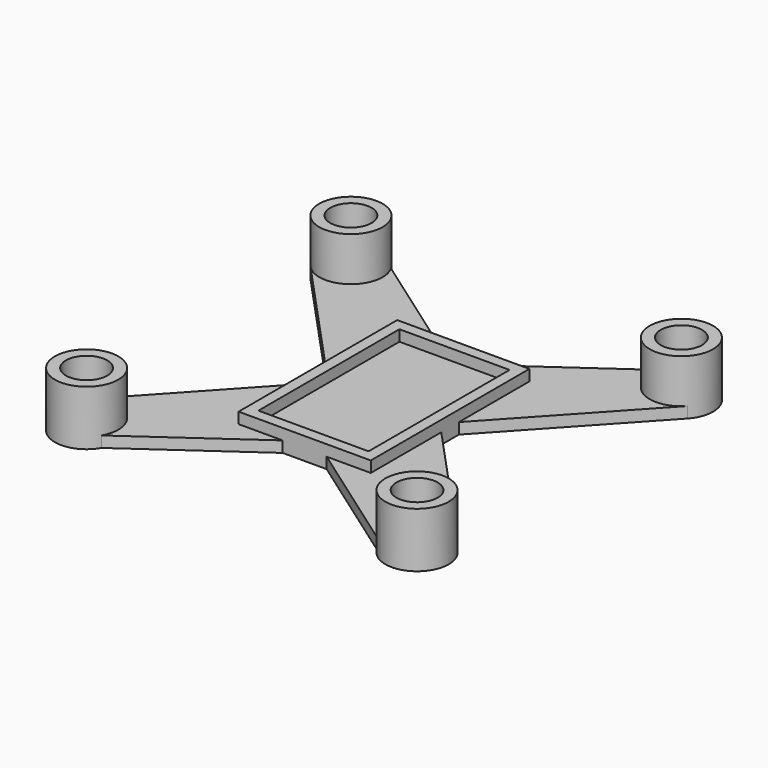
from build123d import *

# Parameters (mm, degrees)
F0_W     = 20
F0_H     = 32
F0_R     = 3.75
F1_DEPTH = 2
F2_DEPTH = 10
F4_DEPTH = 4


with BuildPart() as f1:
    # F0 (on Top) → F1 (new body)
    with BuildSketch(Plane.XY):
        Polygon((12, 18), (4, 18), (-4, 18), (-12, 18), (-12, 2), (-12, -2), (-12, -18), (-4, -18), (4, -18), (12, -18), (12, -2), (12, 2), align=None)
        Rectangle(F0_W, F0_H, mode=Mode.SUBTRACT)
        Rectangle(F0_W, F0_H)
        with BuildLine():
            Line((-12, 18), (-4, 18))
            Line((-4, 18), (-25, 32.8394541729))
            ThreePointArc((-25, 32.8394541729), (-24.4406610105, 31.4684175156), (-24.25, 30))
            ThreePointArc((-24.25, 30), (-27.9074485781, 24.6442807629), (-34.2269490597, 26.1018720331))
            Line((-34.2269490597, 26.1018720331), (-12, 2))
            Line((-12, 2), (-12, 18))
        make_face()
        with BuildLine():
            ThreePointArc((34.2269490597, 26.1018720331), (26.6091070185, 25.3562574589), (25, 32.8394541729))
            Line((25, 32.8394541729), (4, 18))
            Line((4, 18), (12, 18))
            Line((12, 18), (12, 2))
            Line((12, 2), (34.2269490597, 26.1018720331))
        make_face()
        with BuildLine():
            Line((-12, -18), (-12, -2))
            Line((-12, -2), (-34.2269490597, -26.1018720331))
            ThreePointArc((-34.2269490597, -26.1018720331), (-27.9074485781, -24.6442807629), (-24.25, -30))
            ThreePointArc((-24.25, -30), (-24.4406610105, -31.4684175156), (-25, -32.8394541729))
            Line((-25, -32.8394541729), (-4, -18))
            Line((-4, -18), (-12, -18))
        make_face()
        with BuildLine():
            Line((34.2269490597, -26.1018720331), (12, -2))
            Line((12, -2), (12, -18))
            Line((12, -18), (4, -18))
            Line((4, -18), (25, -32.8394541729))
            ThreePointArc((25, -32.8394541729), (26.6091070185, -25.3562574589), (34.2269490597, -26.1018720331))
        make_face()
        with BuildLine():
            ThreePointArc((-24.25, 30), (-24.4406610105, 31.4684175156), (-25, 32.8394541729))
            ThreePointArc((-25, 32.8394541729), (-33.3908929815, 34.6437425411), (-34.2269490597, 26.1018720331))
            ThreePointArc((-34.2269490597, 26.1018720331), (-27.9074485781, 24.6442807629), (-24.25, 30))
        make_face()
        with Locations((-30, 30)):
            Circle(F0_R, mode=Mode.SUBTRACT)
        with BuildLine():
            ThreePointArc((35.75, -30), (35.3557192371, -27.9074485781), (34.2269490597, -26.1018720331))
            ThreePointArc((34.2269490597, -26.1018720331), (26.6091070185, -25.3562574589), (25, -32.8394541729))
            ThreePointArc((25, -32.8394541729), (31.4684175156, -35.5593389895), (35.75, -30))
        make_face()
        with Locations((30, -30)):
            Circle(F0_R, mode=Mode.SUBTRACT)
        with BuildLine():
            ThreePointArc((34.2269490597, 26.1018720331), (35.3557192371, 27.9074485781), (35.75, 30))
            ThreePointArc((35.75, 30), (31.4684175156, 35.5593389895), (25, 32.8394541729))
            ThreePointArc((25, 32.8394541729), (26.6091070185, 25.3562574589), (34.2269490597, 26.1018720331))
        make_face()
        with Locations((30, 30)):
            Circle(F0_R, mode=Mode.SUBTRACT)
        with BuildLine():
            ThreePointArc((-24.25, -30), (-27.9074485781, -24.6442807629), (-34.2269490597, -26.1018720331))
            ThreePointArc((-34.2269490597, -26.1018720331), (-33.3908929815, -34.6437425411), (-25, -32.8394541729))
            ThreePointArc((-25, -32.8394541729), (-24.4406610105, -31.4684175156), (-24.25, -30))
        make_face()
        with Locations((-30, -30)):
            Circle(F0_R, mode=Mode.SUBTRACT)
    extrude(amount=F1_DEPTH)

    # F0 (on Top) → F2 (join)
    with BuildSketch(Plane.XY):
        with BuildLine():
            ThreePointArc((-24.25, -30), (-27.9074485781, -24.6442807629), (-34.2269490597, -26.1018720331))
            ThreePointArc((-34.2269490597, -26.1018720331), (-33.3908929815, -34.6437425411), (-25, -32.8394541729))
            ThreePointArc((-25, -32.8394541729), (-24.4406610105, -31.4684175156), (-24.25, -30))
        make_face()
        with Locations((-30, -30)):
            Circle(F0_R, mode=Mode.SUBTRACT)
        with BuildLine():
            ThreePointArc((35.75, -30), (35.3557192371, -27.9074485781), (34.2269490597, -26.1018720331))
            ThreePointArc((34.2269490597, -26.1018720331), (26.6091070185, -25.3562574589), (25, -32.8394541729))
            ThreePointArc((25, -32.8394541729), (31.4684175156, -35.5593389895), (35.75, -30))
        make_face()
        with Locations((30, -30)):
            Circle(F0_R, mode=Mode.SUBTRACT)
        with BuildLine():
            ThreePointArc((34.2269490597, 26.1018720331), (35.3557192371, 27.9074485781), (35.75, 30))
            ThreePointArc((35.75, 30), (31.4684175156, 35.5593389895), (25, 32.8394541729))
            ThreePointArc((25, 32.8394541729), (26.6091070185, 25.3562574589), (34.2269490597, 26.1018720331))
        make_face()
        with Locations((30, 30)):
            Circle(F0_R, mode=Mode.SUBTRACT)
        with BuildLine():
            ThreePointArc((-24.25, 30), (-24.4406610105, 31.4684175156), (-25, 32.8394541729))
            ThreePointArc((-25, 32.8394541729), (-33.3908929815, 34.6437425411), (-34.2269490597, 26.1018720331))
            ThreePointArc((-34.2269490597, 26.1018720331), (-27.9074485781, 24.6442807629), (-24.25, 30))
        make_face()
        with Locations((-30, 30)):
            Circle(F0_R, mode=Mode.SUBTRACT)
    extrude(amount=F2_DEPTH)

    # F0 (on Top) → F4 (join)
    with BuildSketch(Plane.XY):
        Polygon((12, 18), (4, 18), (-4, 18), (-12, 18), (-12, 2), (-12, -2), (-12, -18), (-4, -18), (4, -18), (12, -18), (12, -2), (12, 2), align=None)
        Rectangle(F0_W, F0_H, mode=Mode.SUBTRACT)
    extrude(amount=F4_DEPTH)


solid = f1.part
